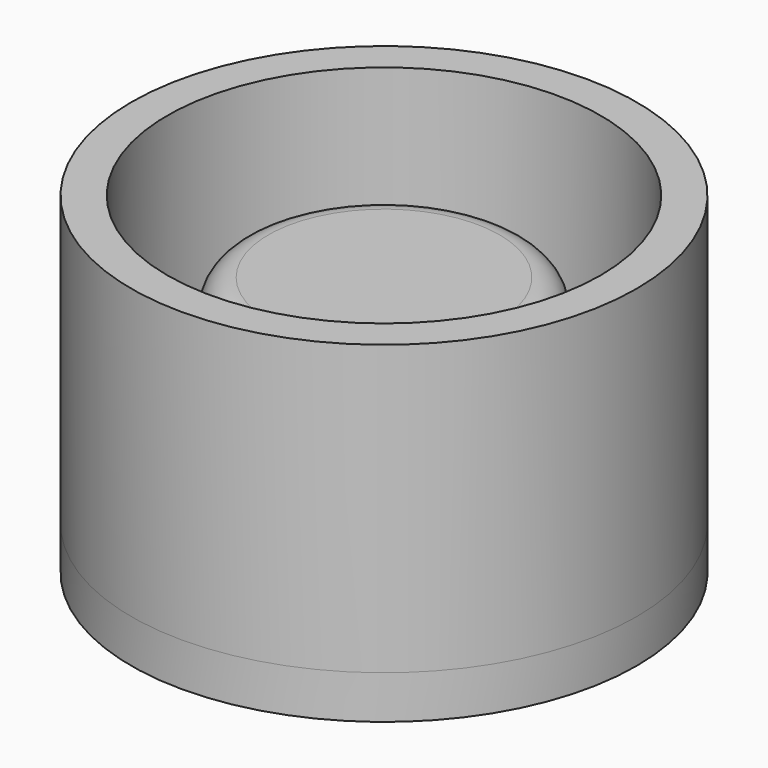
from build123d import *

# Parameters (mm, degrees)
F0_R     = 17.5
F0_R_2   = 15
F1_DEPTH = 20
F2_R     = 10
F3_DEPTH = 15
F4_R     = 17.5
F5_DEPTH = 3
F6_R     = 2


with BuildPart() as f1:
    # F0 (on Top) → F1 (new body)
    with BuildSketch(Plane.XY):
        Circle(F0_R)
        Circle(F0_R_2, mode=Mode.SUBTRACT)
    extrude(amount=F1_DEPTH)


with BuildPart() as f3:
    # F2 (on Top) → F3 (new body)
    with BuildSketch(Plane.XY):
        Circle(F2_R)
    extrude(amount=F3_DEPTH)

    # F6
    f6_edges = [f3.edges().sort_by_distance(p)[0] for p in [
        (-10, 0, 15),
    ]]
    fillet(f6_edges, radius=F6_R)


with BuildPart() as f5:
    # F4 (on Top) → F5 (new body)
    with BuildSketch(Plane.XY):
        Circle(F4_R)
    extrude(amount=-F5_DEPTH)


solid = Compound([f1.part, f3.part, f5.part])
